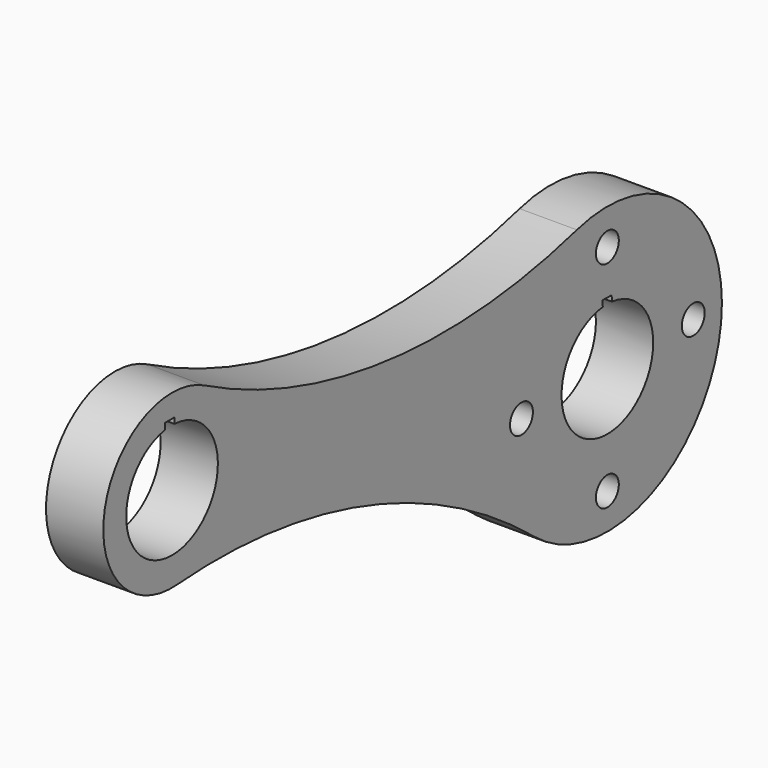
from build123d import *

# Parameters (mm, degrees)
F0_R     = 6.35
F1_DEPTH = 25.4
F3_R     = 10.16
F4_DEPTH = 12.7


with BuildPart() as f1:
    # F0 (on Right) → F1 (new body)
    with BuildSketch(Plane.YZ):
        with BuildLine():
            ThreePointArc((-40.129949, -49.212165), (27.239661, -57.360709), (63.5, 0))
            ThreePointArc((63.5, 0), (38.472271, 50.518653), (-16.882184, 61.214719))
            ThreePointArc((-16.882184, 61.214719), (-62.137911, 13.081666), (-40.129949, -49.212165))
        make_face()
        with Locations((0, -47.625)):
            Circle(F0_R, mode=Mode.SUBTRACT)
        with Locations((-47.625, 0)):
            Circle(F0_R, mode=Mode.SUBTRACT)
        with BuildLine():
            ThreePointArc((2.553456, 25.271325), (-0.008235, -25.399999), (-2.53707, 25.272975))
            Line((-2.53707, 25.272975), (-2.711147, 27.98936))
            Line((-2.711147, 27.98936), (2.385599, 27.89064))
            Line((2.385599, 27.89064), (2.553456, 25.271325))
        make_face(mode=Mode.SUBTRACT)
        with Locations((47.625, 0)):
            Circle(F0_R, mode=Mode.SUBTRACT)
        with Locations((0, 47.625)):
            Circle(F0_R, mode=Mode.SUBTRACT)
        with BuildLine():
            ThreePointArc((-40.129949, -49.212165), (-62.137911, 13.081666), (-16.882184, 61.214719))
            ThreePointArc((-16.882184, 61.214719), (-122.314568, 52.901441), (-223.283655, 84.371138))
            ThreePointArc((-223.283655, 84.371138), (-208.604184, 70.360001), (-203.2, 50.8))
            ThreePointArc((-203.2, 50.8), (-213.335082, 24.923885), (-238.348207, 12.814517))
            ThreePointArc((-238.348207, 12.814517), (-133.261393, 0.904024), (-40.129949, -49.212165))
        make_face()
        with BuildLine():
            ThreePointArc((-203.2, 50.8), (-208.604184, 70.360001), (-223.283655, 84.371138))
            ThreePointArc((-223.283655, 84.371138), (-278.582747, 58.648999), (-238.348207, 12.814517))
            ThreePointArc((-238.348207, 12.814517), (-213.335082, 24.923885), (-203.2, 50.8))
        make_face()
        with BuildLine():
            ThreePointArc((-239.98366, 76.165868), (-240.070161, 25.429791), (-245.06366, 75.919611))
            Line((-245.06366, 75.919611), (-245.06366, 78.710508))
            Line((-245.06366, 78.710508), (-239.98366, 78.710508))
            Line((-239.98366, 78.710508), (-239.98366, 76.165868))
        make_face(mode=Mode.SUBTRACT)
    extrude(amount=F1_DEPTH)

    # F3 (on face) → F4 (cut)
    with BuildSketch(Plane(origin=(0, 0, 0), x_dir=(0, -1, 0), z_dir=(-1, 0, 0))):
        with Locations((0, 47.625)):
            Circle(F3_R)
        with Locations((47.625, 0)):
            Circle(F3_R)
        with Locations((0, -47.625)):
            Circle(F3_R)
        with Locations((-47.625, 0)):
            Circle(F3_R)
    extrude(amount=-F4_DEPTH, mode=Mode.SUBTRACT)


solid = f1.part
